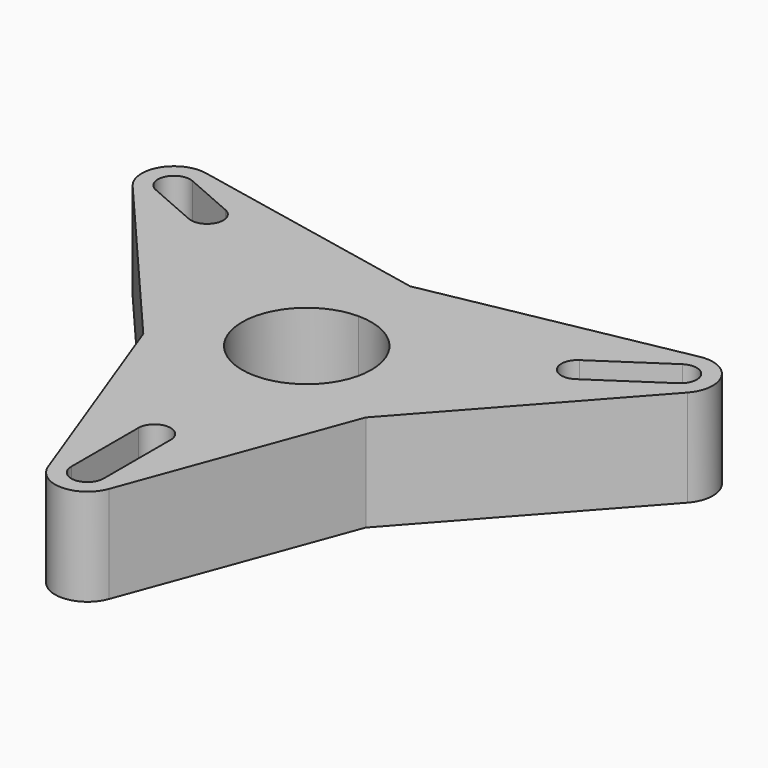
from build123d import *

# Parameters (mm, degrees)
F1_DEPTH = 30


with BuildPart() as f1:
    # F0 (on Top) → F1 (new body)
    with BuildSketch(Plane.XY):
        with BuildLine():
            ThreePointArc((34.478903, -20.278196), (19.860415, -34.721231), (0, -40))
            ThreePointArc((0, -40), (-20.139261, -34.56024), (-34.800884, -19.720508))
            Line((-34.800884, -19.720508), (-9.376239, -88.291404))
            ThreePointArc((-9.376239, -88.291404), (0.00745, -94.814889), (9.381409, -88.277428))
            Line((9.381409, -88.277428), (34.478903, -20.278196))
        make_face()
        with BuildLine():
            ThreePointArc((5, -84.814891), (0, -89.814891), (-5, -84.814891))
            Line((-5, -84.814891), (-5, -58.885846))
            ThreePointArc((-5, -58.885846), (0, -53.885846), (5, -58.885846))
            Line((5, -58.885846), (5, -84.814891))
        make_face(mode=Mode.SUBTRACT)
        with BuildLine():
            ThreePointArc((0, 20), (14.142136, 14.142136), (20, 0))
            ThreePointArc((20, 0), (14.142136, -14.142136), (0, -20))
            Line((0, -20), (0, -40))
            ThreePointArc((0, -40), (19.860415, -34.721231), (34.478903, -20.278196))
            ThreePointArc((34.478903, -20.278196), (38.595052, -10.508184), (40, 0))
            ThreePointArc((40, 0), (28.284271, 28.284271), (0, 40))
            Line((0, 40), (0, 20))
        make_face()
        with BuildLine():
            ThreePointArc((0, -20), (-20, 0), (0, 20))
            Line((0, 20), (0, 40))
            ThreePointArc((0, 40), (-34.56024, 20.139261), (-34.800884, -19.720508))
            ThreePointArc((-34.800884, -19.720508), (-20.139261, -34.56024), (0, -40))
            Line((0, -40), (0, -20))
        make_face()
        with BuildLine():
            ThreePointArc((-34.800884, -19.720508), (-34.56024, 20.139261), (0, 40))
            Line((0, 40), (-75.554794, 55.409922))
            ThreePointArc((-75.554794, 55.409922), (-86.170881, 50.684701), (-85.150626, 39.109378))
            Line((-85.150626, 39.109378), (-34.800884, -19.720508))
        make_face()
        with BuildLine():
            ThreePointArc((-79.551648, 41.02838), (-82.136483, 47.610069), (-75.554794, 50.194904))
            Line((-75.554794, 50.194904), (-59.814075, 43.331522))
            ThreePointArc((-59.814075, 43.331522), (-57.22924, 36.749833), (-63.810929, 34.164998))
            Line((-63.810929, 34.164998), (-79.551648, 41.02838))
        make_face(mode=Mode.SUBTRACT)
        with BuildLine():
            Line((77.689324, 54.912919), (0, 40))
            ThreePointArc((0, 40), (28.284271, 28.284271), (40, 0))
            ThreePointArc((40, 0), (38.595052, -10.508184), (34.478903, -20.278196))
            Line((34.478903, -20.278196), (87.025319, 38.422523))
            ThreePointArc((87.025319, 38.422523), (88.276625, 50.018919), (77.689324, 54.912919))
        make_face()
        with BuildLine():
            ThreePointArc((76.795383, 49.248739), (83.73099, 47.871297), (82.353549, 40.935689))
            Line((82.353549, 40.935689), (61.591367, 27.053942))
            ThreePointArc((61.591367, 27.053942), (54.655759, 28.431383), (56.033201, 35.366991))
            Line((56.033201, 35.366991), (76.795383, 49.248739))
        make_face(mode=Mode.SUBTRACT)
    extrude(amount=F1_DEPTH)


solid = f1.part
